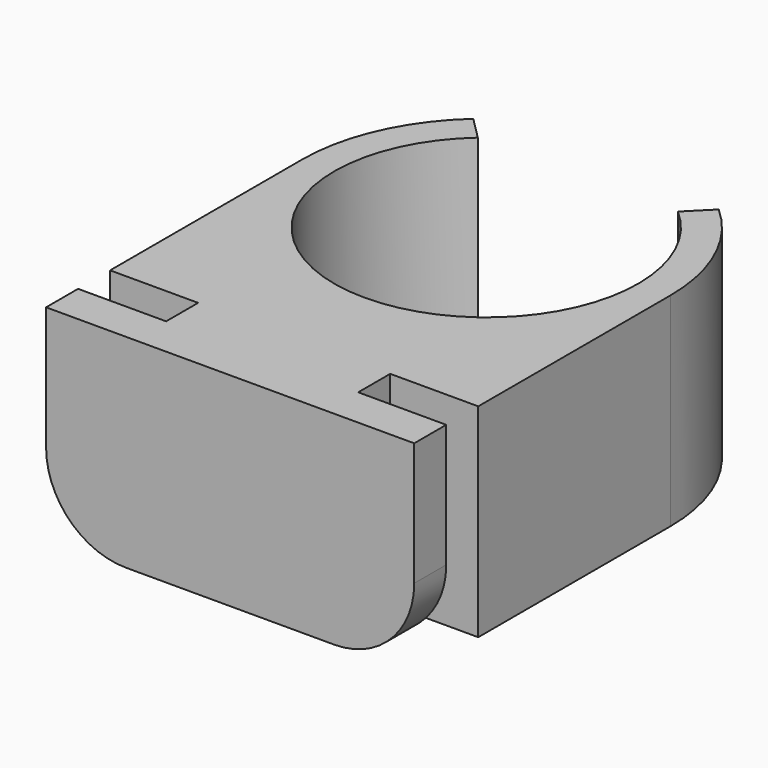
from build123d import *

# Parameters (mm, degrees)
F1_DEPTH = 25.4
F2_R     = 10
F3_R     = 10


with BuildPart() as f1:
    # F0 (on Top) → F1 (new body)
    with BuildSketch(Plane.XY):
        with BuildLine():
            ThreePointArc((12.5, 14.309088), (0, -19), (-12.5, 14.309088))
            Line((-12.5, 14.309088), (-15.333738, 17.142826))
            ThreePointArc((-15.333738, 17.142826), (-20.996142, 9.389463), (-23, 0))
            Line((-23, 0), (-23, -30))
            Line((-23, -30), (-12, -30))
            Line((-12, -30), (-12, -35))
            Line((-12, -35), (-23, -35))
            Line((-23, -35), (-23, -40))
            Line((-23, -40), (23, -40))
            Line((23, -40), (23, -35))
            Line((23, -35), (12, -35))
            Line((12, -35), (12, -30))
            Line((12, -30), (23, -30))
            Line((23, -30), (23, 0))
            ThreePointArc((23, 0), (20.996142, 9.389463), (15.333738, 17.142826))
            Line((15.333738, 17.142826), (12.5, 14.309088))
        make_face()
    extrude(amount=F1_DEPTH)

    # F2
    f2_edges = [f1.edges().sort_by_distance(p)[0] for p in [
        (23, -37.5, 0),
    ]]
    fillet(f2_edges, radius=F2_R)

    # F3
    f3_edges = [f1.edges().sort_by_distance(p)[0] for p in [
        (-23, -37.5, 0),
    ]]
    fillet(f3_edges, radius=F3_R)


solid = f1.part
